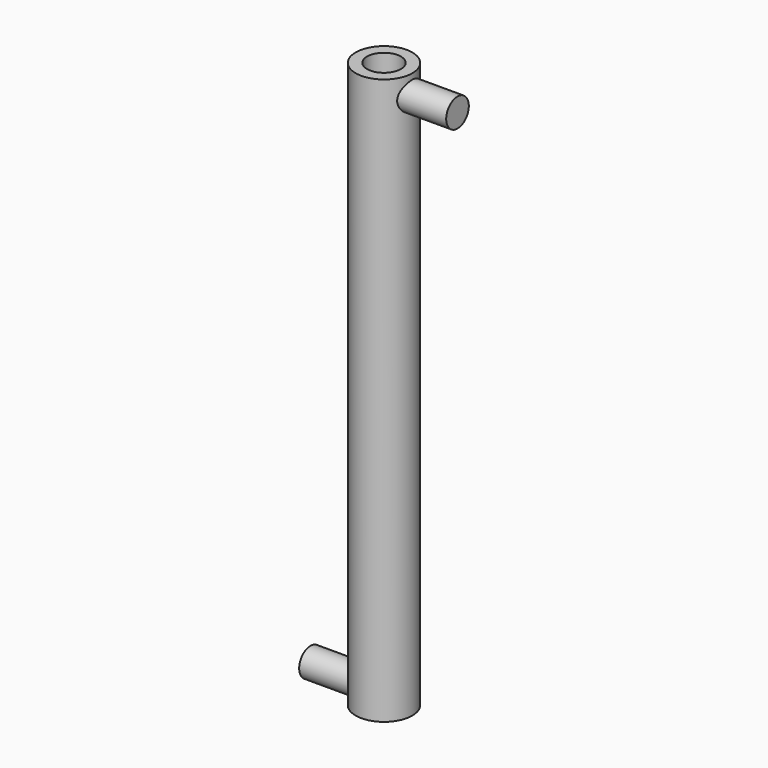
from build123d import *

# Parameters (mm, degrees)
F0_R     = 50
F0_R_2   = 30
F1_DEPTH = 1000
F3_R     = 25
F4_DEPTH = 100
F6_R     = 25
F7_DEPTH = 100


with BuildPart() as f1:
    # F0 (on Top) → F1 (new body)
    with BuildSketch(Plane.XY):
        Circle(F0_R)
        Circle(F0_R_2, mode=Mode.SUBTRACT)
    extrude(amount=F1_DEPTH)

    # F3 (on offset) → F4 (join)
    with BuildSketch(Plane.YZ.offset(-130)):
        with Locations((0, 25.231782)):
            Circle(F3_R)
    extrude(amount=F4_DEPTH)

    # F6 (on offset) → F7 (join)
    with BuildSketch(Plane.YZ.offset(130)):
        with Locations((0, 964.894772)):
            Circle(F6_R)
    extrude(amount=-F7_DEPTH)


solid = f1.part
